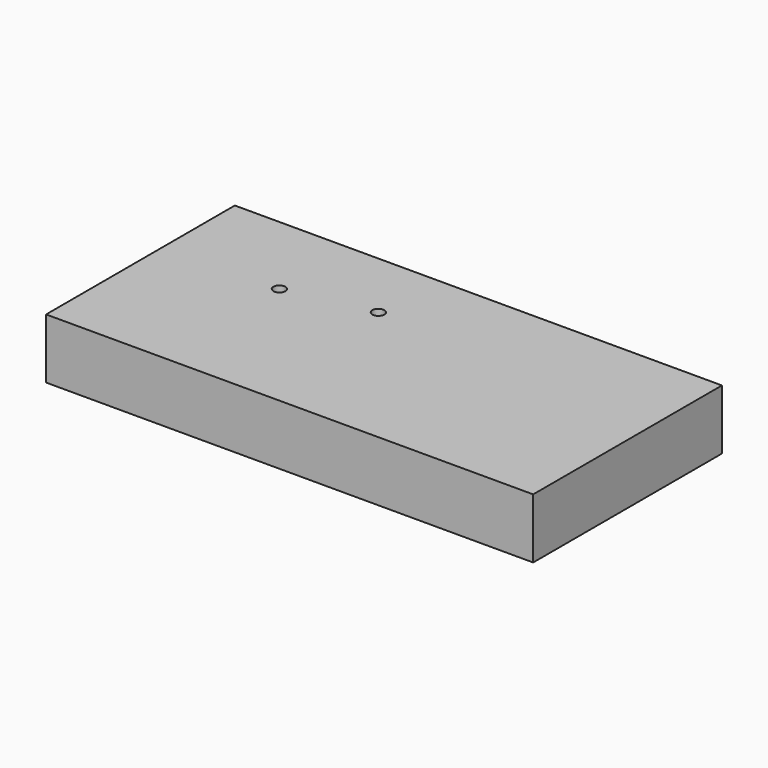
from build123d import *

# Parameters (mm, degrees)
F0_W     = 113.3287157863
F0_H     = 98.3149297535
F1_DEPTH = 25
F4_D     = 5
F4_DEPTH = 12
F4_TIP   = 1.5021515476


with BuildPart() as f1:
    # F0 (on Top) → F1 (new body)
    with BuildSketch(Plane.XY):
        with Locations((-44.8288666084, -95.1015558094)):
            Rectangle(F0_W, F0_H)
    extrude(amount=F1_DEPTH)

    # F2: F1 across plane


with BuildPart() as f1_1:
    add(f1.part)
    add(f1.part.mirror(Plane.YZ))

    # F4
    with Locations(Plane.XY.offset(25)):
        with Locations((-53.4110553563, -82.8184708953), (-17.9668162018, -75.5653455853)):
            Hole(F4_D / 2, depth=F4_DEPTH)
            with Locations((0, 0, -(F4_DEPTH + F4_TIP / 2))):  # 118° drill point
                Cone(0, F4_D / 2, F4_TIP, mode=Mode.SUBTRACT)


solid = f1_1.part
